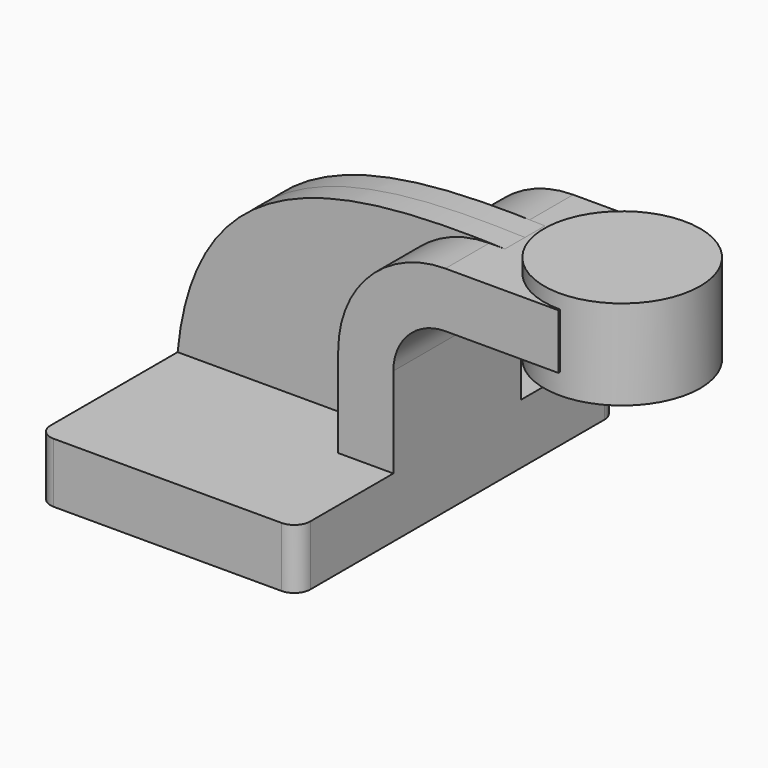
from build123d import *

# Parameters (mm, degrees)
F1_DEPTH = 63.5
F0_W     = 26.0042664987
F0_H     = 17.5260005385
F2_DEPTH = 25.4
F3_DEPTH = 7.9375
F5_R     = 5.08


with BuildPart() as f1:
    # F0 (on Front) → F1 (new body, symmetric)
    with BuildSketch(Plane.XZ):
        Polygon((23.7489994615, 9.525), (-41.275, 9.525), (-41.275, -9.525), (41.275, -9.525), (41.275, 9.525), align=None)
    extrude(amount=F1_DEPTH, both=True)

    # F0 (on Front) → F2 (join, symmetric)
    with BuildSketch(Plane.XZ):
        with BuildLine():
            Line((23.7489994615, 38.1957218051), (23.7489994615, 9.525))
            Line((23.7489994615, 9.525), (41.275, 9.525))
            Line((41.275, 9.525), (41.275, 38.1957218051))
            ThreePointArc((41.275, 38.1957218051), (46.1106670426, 49.8700547625), (57.785, 54.7057218051))
            Line((57.785, 54.7057218051), (67.6709335013, 54.7057218051))
            Line((67.6709335013, 54.7057218051), (67.6709335013, 72.2317223436))
            Line((67.6709335013, 72.2317223436), (62.7786442637, 72.2317223436))
            Line((62.7786442637, 72.2317223436), (57.785, 72.2317223436))
            ThreePointArc((57.785, 72.2317223436), (33.7179132148, 62.2628085903), (23.7489994615, 38.1957218051))
        make_face()
        with Locations((80.6730667507, 63.4687220743)):
            Rectangle(F0_W, F0_H)
    extrude(amount=F2_DEPTH, both=True)

    # F0 (on Front) → F3 (join, symmetric)
    with BuildSketch(Plane.XZ):
        with BuildLine():
            add(Edge.make_bspline(
                [(-41.275, 9.525), (-35.4608595371, 69.9300542474), (14.8590393364, 73.8207250834), (62.7786442637, 72.2317223436)],
                knots=[0, 0, 0, 0, 121.4878344183, 121.4878344183, 121.4878344183, 121.4878344183], degree=3))
            Line((-41.275, 9.525), (23.7489994615, 9.525))
            Line((23.7489994615, 9.525), (23.7489994615, 38.1957218051))
            ThreePointArc((23.7489994615, 38.1957218051), (33.7179132148, 62.2628085903), (57.785, 72.2317223436))
            Line((57.785, 72.2317223436), (62.7786442637, 72.2317223436))
        make_face()
    extrude(amount=F3_DEPTH, both=True)

    # F0 (on Front) → F4 (revolve)
    with BuildSketch(Plane.XZ):
        Polygon((93.6752, 76.7040487946), (93.6752, 72.2317223436), (93.6752, 54.7057218051), (93.6752, 48.1290487946), (118.4709335013, 48.1290487946), (118.4709335013, 76.7040487946), align=None)
    revolve(axis=Axis((93.6752, 0, 62.4165487946), (0, 0, 1)))

    # F5
    f5_edges = [f1.edges().sort_by_distance(p)[0] for p in [
        (41.275, 63.5, 0),
        (-41.275, 63.5, 0),
        (-41.275, -63.5, 0),
        (41.275, -63.5, 0),
    ]]
    fillet(f5_edges, radius=F5_R)


solid = f1.part
